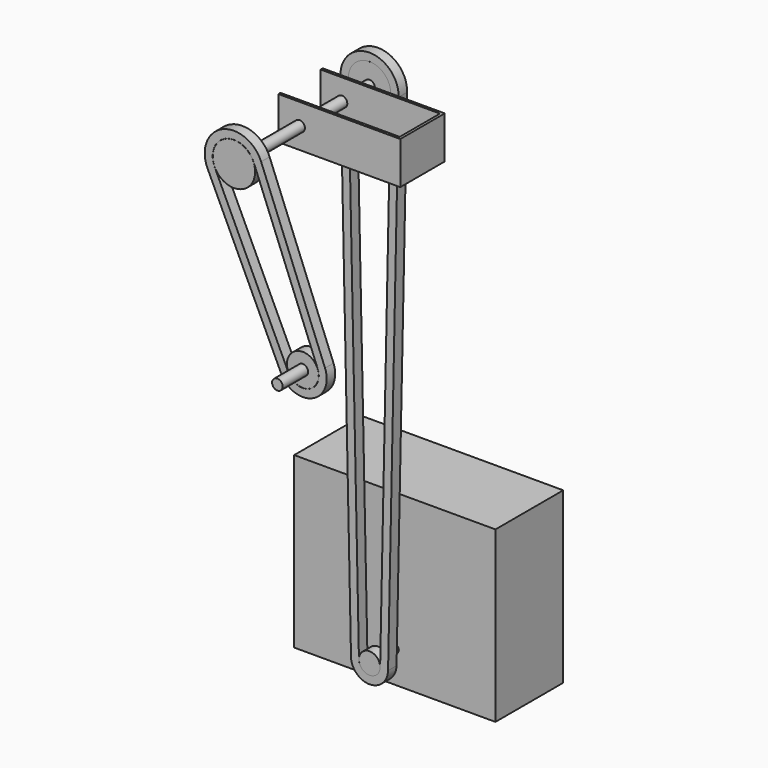
from build123d import *

# Parameters (mm, degrees)
F0_W      = 482.6
F0_H      = 406.4
F1_DEPTH  = 203.2
F2_R      = 9.525
F3_DEPTH  = 50.8
F4_R      = 25.4
F5_DEPTH  = 25
F7_DEPTH  = 25.4
F8_R      = 50.799873
F9_DEPTH  = 25.4
F11_R     = 12.7
F12_DEPTH = 381
F13_R     = 50.799873
F14_DEPTH = 25.4
F15_R     = 38.1
F16_DEPTH = 25.4
F18_DEPTH = 25.4
F19_R     = 12.7
F20_DEPTH = 76.2
F22_W     = 286.003873
F22_H     = 101.6
F22_R     = 12.7
F23_DEPTH = 6.35
F24_W     = 127
F24_H     = 101.6
F25_DEPTH = 6.35
F26_W     = 292.353873
F26_H     = 101.6
F27_DEPTH = 6.35


with BuildPart() as f1:
    # F0 (on Front) → F1 (new body)
    with BuildSketch(Plane.XZ):
        with Locations((241.3, 203.2)):
            Rectangle(F0_W, F0_H)
    extrude(amount=F1_DEPTH)

    # F2 (on face) → F3 (join)
    with BuildSketch(Plane.XZ.offset(203.2)):
        with Locations((241.3, 76.2)):
            Circle(F2_R)
    extrude(amount=F3_DEPTH)

    # F4 (on face) → F5 (join)
    with BuildSketch(Plane.XZ.offset(254)):
        with Locations((241.3, 76.2)):
            Circle(F4_R)
    extrude(amount=F5_DEPTH)


with BuildPart() as f7:
    # F6 (on face) → F7 (new body)
    with BuildSketch(Plane.XZ.offset(279)):
        with BuildLine():
            ThreePointArc((311.1348400541, 1293.9447973958), (241.3, 1365.25), (171.4651599459, 1293.9447973958))
            Line((171.4651599459, 1293.9447973958), (196.85954726, 75.2739598958))
            ThreePointArc((196.85954726, 75.2739598958), (241.3, 31.7499), (285.74045274, 75.2739598958))
            Line((285.74045274, 75.2739598958), (311.1348400541, 1293.9447973958))
        make_face()
        with BuildLine():
            Line((292.0889745848, 1294.3416708333), (266.6945872707, 75.6708333333))
            ThreePointArc((266.6945872707, 75.6708333333), (241.3, 50.7999), (215.9054127293, 75.6708333333))
            Line((215.9054127293, 75.6708333333), (190.5110254152, 1294.3416708333))
            ThreePointArc((190.5110254152, 1294.3416708333), (241.3, 1346.2), (292.0889745848, 1294.3416708333))
        make_face(mode=Mode.SUBTRACT)
    extrude(amount=-F7_DEPTH)


with BuildPart() as f9:
    # F8 (on face) → F9 (new body)
    with BuildSketch(Plane.XZ.offset(279)):
        with Locations((241.3, 1295.4)):
            Circle(F8_R)
    extrude(amount=-F9_DEPTH)

    # F11 (on face) → F12 (join)
    with BuildSketch(Plane.XZ.offset(279)):
        with Locations((241.3, 1295.4)):
            Circle(F11_R)
    extrude(amount=F12_DEPTH)

    # F22 (on offset) → F23 (join)
    with BuildSketch(Plane.XZ.offset(482.2)):
        with Locations((333.2480635, 1295.653873)):
            Rectangle(F22_W, F22_H)
        with Locations((241.3, 1295.4)):
            Circle(F22_R, mode=Mode.SUBTRACT)
    extrude(amount=F23_DEPTH)

    # F24 (on face) → F25 (join)
    with BuildSketch(Plane.YZ.offset(476.25)):
        with Locations((-425.05, 1295.653873)):
            Rectangle(F24_W, F24_H)
    extrude(amount=F25_DEPTH)

    # F26 (on face) → F27 (join)
    with BuildSketch(Plane(origin=(0, -361.55, 0), x_dir=(-1, 0, 0), z_dir=(0, 1, 0))):
        with Locations((-336.4230635, 1295.653873)):
            Rectangle(F26_W, F26_H)
    extrude(amount=F27_DEPTH)


with BuildPart() as f14:
    # F13 (on face) → F14 (new body)
    with BuildSketch(Plane.XZ.offset(660)):
        with Locations((241.3, 1295.4)):
            Circle(F13_R)
    extrude(amount=F14_DEPTH)


with BuildPart() as f16:
    # F15 (on face) → F16 (new body)
    with BuildSketch(Plane.XZ.offset(685.4)):
        with Locations((406.4, 914.4)):
            Circle(F15_R)
    extrude(amount=-F16_DEPTH)

    # F19 (on face) → F20 (join)
    with BuildSketch(Plane.XZ.offset(685.4)):
        with Locations((406.4, 914.4)):
            Circle(F19_R)
    extrude(amount=F20_DEPTH)


with BuildPart() as f18:
    # F17 (on face) → F18 (new body)
    with BuildSketch(Plane.XZ.offset(685.4)):
        with BuildLine():
            ThreePointArc((354.4513551765, 889.9754730445), (429.22425735, 861.7286368847), (459.7447992435, 935.6026321402))
            Line((459.7447992435, 935.6026321402), (306.4466279593, 1321.2934330503))
            ThreePointArc((306.4466279593, 1321.2934330503), (213.4261786882, 1359.7242030272), (177.8584070931, 1265.571870675))
            Line((177.8584070931, 1265.571870675), (354.4513551765, 889.9754730445))
        make_face()
        with BuildLine():
            ThreePointArc((195.0980016141, 1273.6773552841), (221.0006003752, 1342.244768365), (288.7437078564, 1314.2571613224))
            Line((288.7437078564, 1314.2571613224), (442.0418791406, 928.5663604122))
            ThreePointArc((442.0418791406, 928.5663604122), (421.649835663, 879.2080715469), (371.6909496976, 898.0809576536))
            Line((371.6909496976, 898.0809576536), (195.0980016141, 1273.6773552841))
        make_face(mode=Mode.SUBTRACT)
    extrude(amount=-F18_DEPTH)


solid = Compound([f1.part, f7.part, f9.part, f14.part, f16.part, f18.part])
